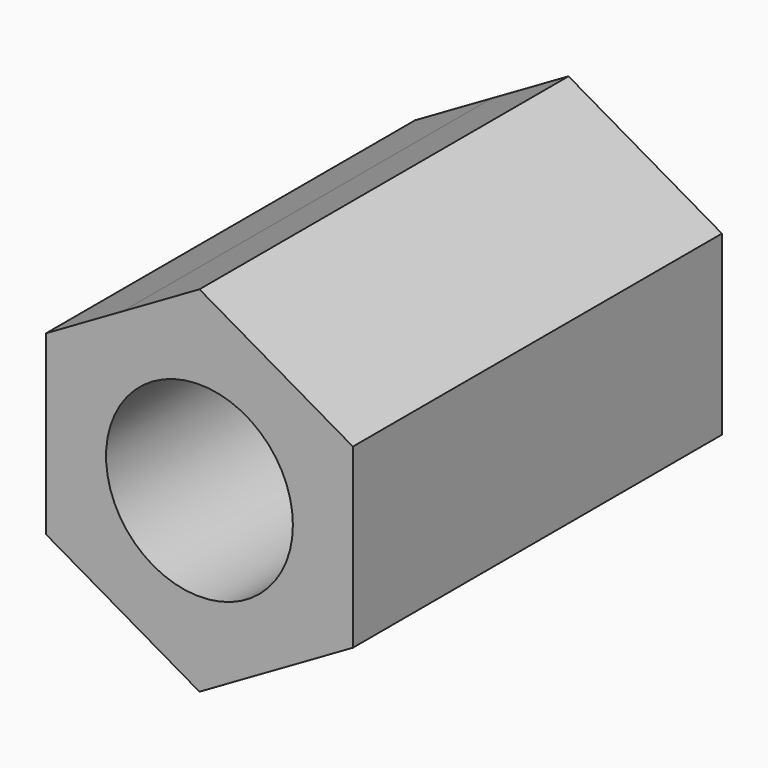
from build123d import *

# Parameters (mm, degrees)
F0_R     = 4.05
F1_DEPTH = 20


with BuildPart() as f1:
    # F0 (on Front) → F1 (new body)
    with BuildSketch(Plane.XZ):
        with BuildLine():
            Line((3.3250001364, 5.7590688564), (0, 7.6787585802))
            Line((0, 7.6787585802), (-3.3249999524, 5.7590689627))
            ThreePointArc((-3.3249999524, 5.7590689627), (1.062e-07, 6.65), (3.3250001364, 5.7590688564))
        make_face()
        with BuildLine():
            Line((6.65, 3.8393792901), (3.3250001364, 5.7590688564))
            ThreePointArc((3.3250001364, 5.7590688564), (5.7590689745, 3.3249999318), (6.65, 0))
            Line((6.65, 0), (6.65, 3.8393792901))
        make_face()
        with BuildLine():
            ThreePointArc((6.65, 0), (5.7590689745, 3.3249999318), (3.3250001364, 5.7590688564))
            ThreePointArc((3.3250001364, 5.7590688564), (1.062e-07, 6.65), (-3.3249999524, 5.7590689627))
            ThreePointArc((-3.3249999524, 5.7590689627), (-5.7590689214, 3.3250000238), (-6.65, 0))
            ThreePointArc((-6.65, 0), (-5.7590689227, -3.3250000216), (-3.3249999568, -5.7590689601))
            ThreePointArc((-3.3249999568, -5.7590689601), (2.14e-08, -6.65), (3.3249999939, -5.7590689387))
            ThreePointArc((3.3249999939, -5.7590689387), (5.7590689334, -3.3250000031), (6.65, 0))
        make_face()
        Circle(F0_R, mode=Mode.SUBTRACT)
        with BuildLine():
            ThreePointArc((-6.65, 0), (-5.7590689214, 3.3250000238), (-3.3249999524, 5.7590689627))
            Line((-3.3249999524, 5.7590689627), (-6.65, 3.8393792901))
            Line((-6.65, 3.8393792901), (-6.65, 0))
        make_face()
        with BuildLine():
            Line((6.65, -3.8393792901), (6.65, 0))
            ThreePointArc((6.65, 0), (5.7590689334, -3.3250000031), (3.3249999939, -5.7590689387))
            Line((3.3249999939, -5.7590689387), (6.65, -3.8393792901))
        make_face()
        with BuildLine():
            ThreePointArc((-3.3249999568, -5.7590689601), (-5.7590689227, -3.3250000216), (-6.65, 0))
            Line((-6.65, 0), (-6.65, -3.8393792901))
            Line((-6.65, -3.8393792901), (-3.3249999568, -5.7590689601))
        make_face()
        with BuildLine():
            Line((0, -7.6787585802), (3.3249999939, -5.7590689387))
            ThreePointArc((3.3249999939, -5.7590689387), (2.14e-08, -6.65), (-3.3249999568, -5.7590689601))
            Line((-3.3249999568, -5.7590689601), (0, -7.6787585802))
        make_face()
    extrude(amount=F1_DEPTH)


solid = f1.part
